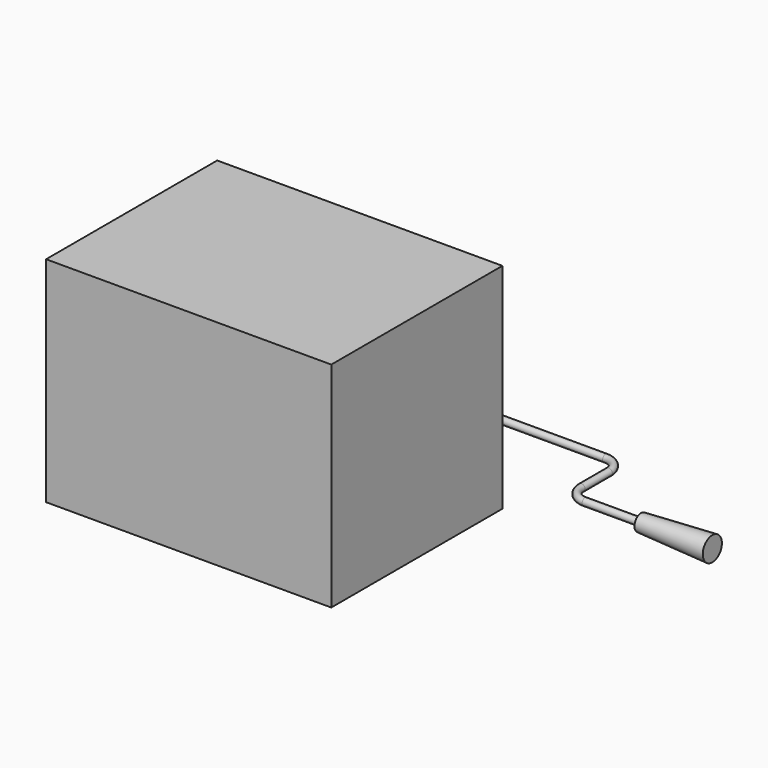
from build123d import *

# Parameters (mm, degrees)
F0_W     = 40
F0_H     = 30
F1_DEPTH = 30
F3_R     = 0.5
F5_R     = 1.1554903768
F6_DEPTH = 10
F6_TAPER = -3


with BuildPart() as f1:
    # F0 (on Top) → F1 (new body)
    with BuildSketch(Plane.XY):
        with Locations((-2.9915943742, -16.3873385004)):
            Rectangle(F0_W, F0_H)
    extrude(amount=F1_DEPTH)


with BuildPart() as f4:
    # F4: sweep along a path in F2
    with BuildLine(Plane.XY) as f4_path:
        Line((0, 15.0568103418), (18.3096965775, 15.0568103418))
        ThreePointArc((18.3096965775, 15.0568103418), (19.9631523474, 14.3719265371), (20.6480361521, 12.7184707671))
        Line((20.6480361521, 12.7184707671), (20.6480361521, 7.9430229962))
        ThreePointArc((20.6480361521, 7.9430229962), (21.3402119965, 6.2719626852), (23.0112723075, 5.5797868408))
        Line((23.0112723075, 5.5797868408), (30.8839306235, 5.5797868408))
    # F3 (on Right) → F4 (sweep)
    with BuildSketch(Plane.YZ):
        with Locations((15.0568103418, 0)):
            Circle(F3_R)
    sweep(path=f4_path.line)

    # F5 (on face) → F6 (join)
    with BuildSketch(Plane.YZ.offset(30.8839306235)):
        with Locations((5.5797868408, 0)):
            Circle(F5_R)
    extrude(amount=F6_DEPTH, taper=F6_TAPER)


solid = Compound([f1.part, f4.part])
